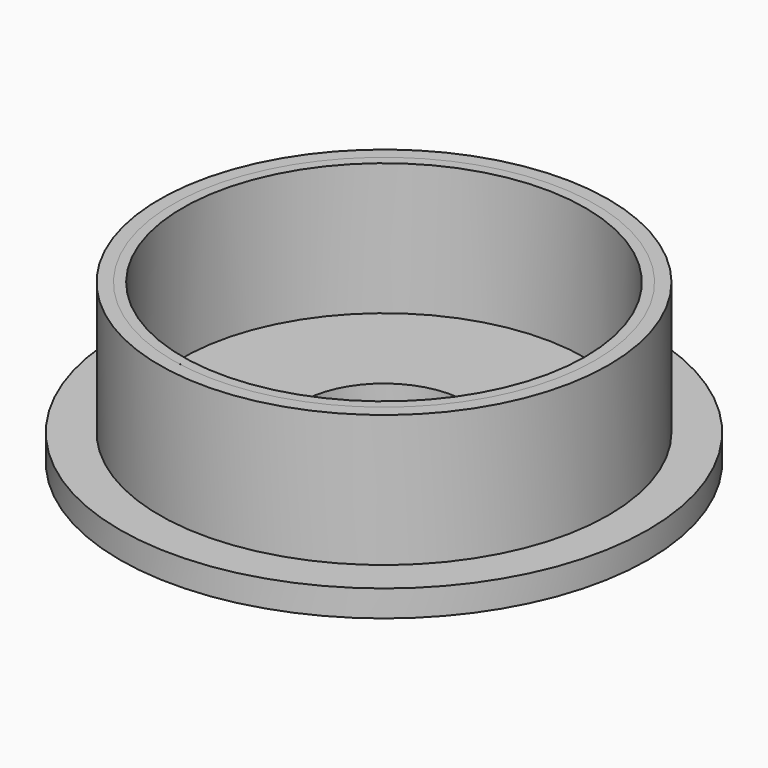
from build123d import *

# Parameters (mm, degrees)
SKETCH_R             = 16
SKETCH_R_2           = 15.25
PAD_DEPTH            = 10
SKETCH001_R          = 19
PAD003_DEPTH         = 2
SKETCH005_R          = 6.25
POCKET004_DEPTH      = 2.001
POCKET004_DEPTH_BACK = -10.001
SKETCH006_R          = 17
SKETCH006_R_2        = 16
PAD001_DEPTH         = 10
SKETCH007_R          = 20
SKETCH007_R_2        = 16
PAD002_DEPTH         = 2


with BuildPart() as insert:
    # Sketch → Pad (new body)
    with BuildSketch(Plane.XY):
        Circle(SKETCH_R)
        Circle(SKETCH_R_2, mode=Mode.SUBTRACT)
    extrude(amount=PAD_DEPTH)

    # Sketch001 (on Face3 of Pad) → Pad003 (join)
    with BuildSketch(Plane(origin=(0, 0, 0), x_dir=(1, 0, 0), z_dir=(0, 0, -1))):
        Circle(SKETCH001_R)
    extrude(amount=PAD003_DEPTH)

    # Sketch005 → Pocket004 (cut, two sides)
    with BuildSketch(Plane.XY) as pocket004_sk:
        Circle(SKETCH005_R)
    extrude(amount=-POCKET004_DEPTH, mode=Mode.SUBTRACT)
    extrude(pocket004_sk.sketch, amount=-POCKET004_DEPTH_BACK, mode=Mode.SUBTRACT)


with BuildPart() as rim:
    # Sketch006 → Pad001 (new body)
    with BuildSketch(Plane.XY):
        Circle(SKETCH006_R)
        Circle(SKETCH006_R_2, mode=Mode.SUBTRACT)
    extrude(amount=PAD001_DEPTH)

    # Sketch007 → Pad002 (join)
    with BuildSketch(Plane.XY):
        Circle(SKETCH007_R)
        Circle(SKETCH007_R_2, mode=Mode.SUBTRACT)
    extrude(amount=-PAD002_DEPTH)


solid = Compound([insert.part, rim.part])
